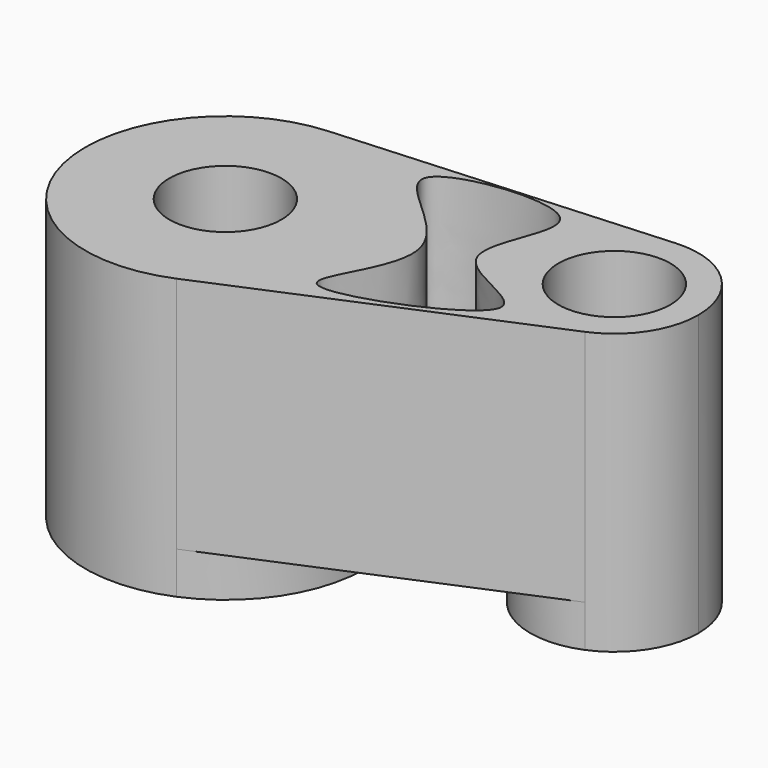
from build123d import *

# Parameters (mm, degrees)
F0_R     = 10
F1_DEPTH = 50
F2_DEPTH = 7.5


with BuildPart() as f1:
    # F0 (on Top) → F1 (new body)
    with BuildSketch(Plane.XY):
        with BuildLine():
            ThreePointArc((-30.3820447475, -10.8622971323), (-19.2786132278, -1.649121908), (-15.1152374433, 12.1651855774))
            ThreePointArc((-15.1152374433, 12.1651855774), (-23.0213758686, 30.4079895414), (-41.7392291606, 37.1123828329))
            ThreePointArc((-41.7392291606, 37.1123828329), (-64.4428403784, 6.4060419404), (-30.3820447475, -10.8622971323))
        make_face()
        with Locations((-40.1152374433, 12.1651855774)):
            Circle(F0_R, mode=Mode.SUBTRACT)
        with BuildLine():
            ThreePointArc((-41.7392291606, 37.1123828329), (-23.0213758686, 30.4079895414), (-15.1152374433, 12.1651855774))
            ThreePointArc((-15.1152374433, 12.1651855774), (-19.2786132278, -1.649121908), (-30.3820447475, -10.8622971323))
            Line((-30.3820447475, -10.8622971323), (24.1109252184, 12.1706406806))
            ThreePointArc((24.1109252184, 12.1706406806), (3.6744478399, 22.5316441242), (17.2966145705, 40.9554486597))
            Line((17.2966145705, 40.9554486597), (-41.7392291606, 37.1123828329))
        make_face()
        with BuildLine():
            add(Edge.make_bspline(
                [(-13.9945326373, 0), (-16.7171610106, 1.704047552), (0.9113013113, 19.2696373943), (-37.321255861, 36.694214527), (11.0627180439, 42.6109395512), (-10.5468886078, 17.3218012801), (24.750875867, 11.7952092336), (-10.6487666688, -2.0940589484), (-13.9945326373, 0)],
                knots=[0, 0, 0, 0, 0.1564159867, 0.3312619603, 0.5082275848, 0.6602471681, 0.8077845327, 1, 1, 1, 1], degree=3))
        make_face(mode=Mode.SUBTRACT)
        with BuildLine():
            ThreePointArc((33.2710096009, 25.9871303064), (28.5273265457, 36.9328126848), (17.2966145705, 40.9554486597))
            ThreePointArc((17.2966145705, 40.9554486597), (3.6744478399, 22.5316441242), (24.1109252184, 12.1706406806))
            ThreePointArc((24.1109252184, 12.1706406806), (30.7729841302, 17.6985458151), (33.2710096009, 25.9871303064))
        make_face()
        with Locations((18.2710096009, 25.9871303064)):
            Circle(F0_R, mode=Mode.SUBTRACT)
    extrude(amount=F1_DEPTH)

    # F0 (on Top) → F2 (cut, symmetric)
    with BuildSketch(Plane.XY):
        with BuildLine():
            ThreePointArc((-41.7392291606, 37.1123828329), (-23.0213758686, 30.4079895414), (-15.1152374433, 12.1651855774))
            ThreePointArc((-15.1152374433, 12.1651855774), (-19.2786132278, -1.649121908), (-30.3820447475, -10.8622971323))
            Line((-30.3820447475, -10.8622971323), (24.1109252184, 12.1706406806))
            ThreePointArc((24.1109252184, 12.1706406806), (3.6744478399, 22.5316441242), (17.2966145705, 40.9554486597))
            Line((17.2966145705, 40.9554486597), (-41.7392291606, 37.1123828329))
        make_face()
        with BuildLine():
            add(Edge.make_bspline(
                [(-13.9945326373, 0), (-16.7171610106, 1.704047552), (0.9113013113, 19.2696373943), (-37.321255861, 36.694214527), (11.0627180439, 42.6109395512), (-10.5468886078, 17.3218012801), (24.750875867, 11.7952092336), (-10.6487666688, -2.0940589484), (-13.9945326373, 0)],
                knots=[0, 0, 0, 0, 0.1564159867, 0.3312619603, 0.5082275848, 0.6602471681, 0.8077845327, 1, 1, 1, 1], degree=3))
        make_face(mode=Mode.SUBTRACT)
    extrude(amount=F2_DEPTH, both=True, mode=Mode.SUBTRACT)


solid = f1.part
